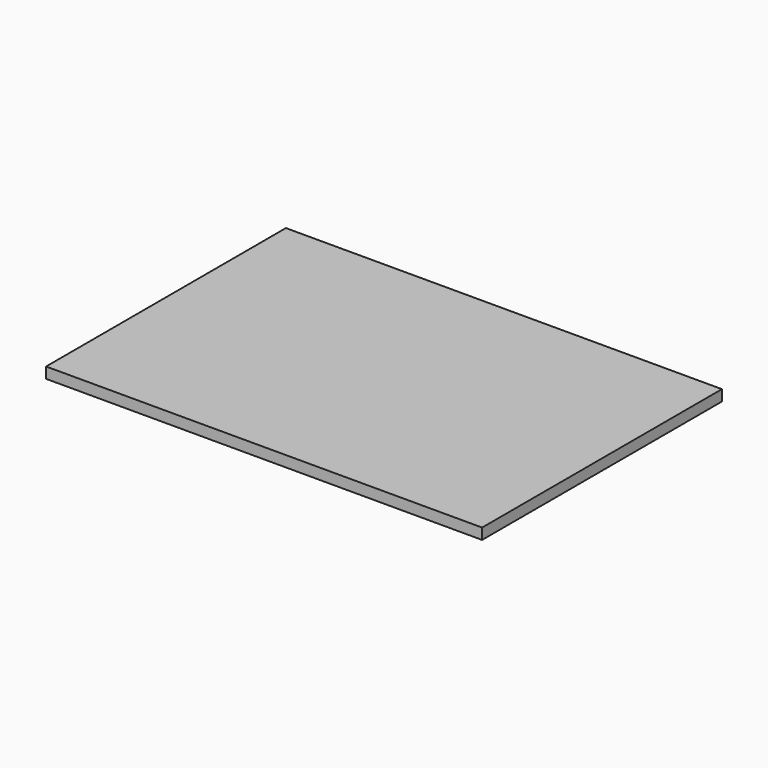
from build123d import *

# Parameters (mm, degrees)
F0_W      = 50
F0_H      = 20.55
F1_DEPTH  = 27
F2_T      = -0.5
F4_DEPTH  = 25
F6_DEPTH  = 0.5
F8_DEPTH  = 0.5
F9_R      = 0.8
F9_2_R    = 0.8
F10_W     = 160
F10_H     = 110
F11_DEPTH = 4


with BuildPart() as f1:
    # F0 (on Front) → F1 (new body)
    with BuildSketch(Plane.XZ):
        Rectangle(F0_W, F0_H)
    extrude(amount=F1_DEPTH)

    # F2
    f2_openings = [f1.faces().sort_by_distance(p)[0] for p in [
        (25, -13.5, 0),
    ]]
    offset(amount=F2_T, openings=f2_openings)

    # F3 (on face) → F4 (cut)
    with BuildSketch(Plane.XY.offset(10.275)):
        with BuildLine():
            ThreePointArc((-6.5, -17), (-4.0251262658, -15.9748737342), (-3, -13.5))
            ThreePointArc((-3, -13.5), (-4.0251262658, -11.0251262658), (-6.5, -10))
            ThreePointArc((-6.5, -10), (-10, -13.5), (-6.5, -17))
        make_face()
        with BuildLine():
            ThreePointArc((-6.5, -10), (-4.0251262658, -11.0251262658), (-3, -13.5))
            ThreePointArc((-3, -13.5), (-4.0251262658, -15.9748737342), (-6.5, -17))
            Line((-6.5, -17), (25, -17))
            Line((25, -17), (25, -10))
            Line((25, -10), (-6.5, -10))
        make_face()
    extrude(amount=-F4_DEPTH, mode=Mode.SUBTRACT)

    # F5 (on face) → F6 (cut)
    with BuildSketch(Plane(origin=(0, 0, -10.275), x_dir=(1, 0, 0), z_dir=(0, 0, -1))):
        with BuildLine():
            Line((25, 27), (-25, 27))
            Line((-25, 27), (-25, 0))
            Line((-25, 0), (25, 0))
            Line((25, 0), (25, 10))
            Line((25, 10), (-6.5, 10))
            ThreePointArc((-6.5, 10), (-10, 13.5), (-6.5, 17))
            Line((-6.5, 17), (25, 17))
            Line((25, 17), (25, 27))
        make_face()
    extrude(amount=-F6_DEPTH, mode=Mode.SUBTRACT)

    # F9
    f9_edges = [f1.edges().sort_by_distance(p)[0] for p in [
        (-25, -27, 0.25),
        (-25, 0, 0.25),
    ]]
    fillet(f9_edges, radius=F9_R)


with BuildPart() as f8:
    # F7 (on face) → F8 (new body)
    with BuildSketch(Plane.XY.offset(10.275)):
        with BuildLine():
            Line((25, -10), (25, 0))
            Line((25, 0), (-25, 0))
            Line((-25, 0), (-25, -27))
            Line((-25, -27), (25, -27))
            Line((25, -27), (25, -17))
            Line((25, -17), (-6.5, -17))
            ThreePointArc((-6.5, -17), (-10, -13.5), (-6.5, -10))
            Line((-6.5, -10), (25, -10))
        make_face()
    extrude(amount=F8_DEPTH)

    # F9#2
    f9_2_edges = [f8.edges().sort_by_distance(p)[0] for p in [
        (-25, -27, 10.525),
        (-25, 0, 10.525),
    ]]
    fillet(f9_2_edges, radius=F9_2_R)


with BuildPart() as f11:
    # F10 (on face) → F11 (new body)
    with BuildSketch(Plane.XY.offset(10.775)):
        with Locations((0, -13.5)):
            Rectangle(F10_W, F10_H)
        with BuildLine():
            Line((-24.2, 0), (25, 0))
            Line((25, 0), (25, -10))
            Line((25, -10), (-6.5, -10))
            ThreePointArc((-6.5, -10), (-10, -13.5), (-6.5, -17))
            Line((-6.5, -17), (25, -17))
            Line((25, -17), (25, -27))
            Line((25, -27), (-24.2, -27))
            ThreePointArc((-24.2, -27), (-24.7656854249, -26.7656854249), (-25, -26.2))
            Line((-25, -26.2), (-25, -0.8))
            ThreePointArc((-25, -0.8), (-24.7656854249, -0.2343145751), (-24.2, 0))
        make_face(mode=Mode.SUBTRACT)
        with BuildLine():
            Line((25, -10), (25, 0))
            Line((25, 0), (-24.2, 0))
            ThreePointArc((-24.2, 0), (-24.7656854249, -0.2343145751), (-25, -0.8))
            Line((-25, -0.8), (-25, -26.2))
            ThreePointArc((-25, -26.2), (-24.7656854249, -26.7656854249), (-24.2, -27))
            Line((-24.2, -27), (25, -27))
            Line((25, -27), (25, -17))
            Line((25, -17), (-6.5, -17))
            ThreePointArc((-6.5, -17), (-10, -13.5), (-6.5, -10))
            Line((-6.5, -10), (25, -10))
        make_face()
    extrude(amount=F11_DEPTH)


solid = Compound([f1.part, f8.part, f11.part])
